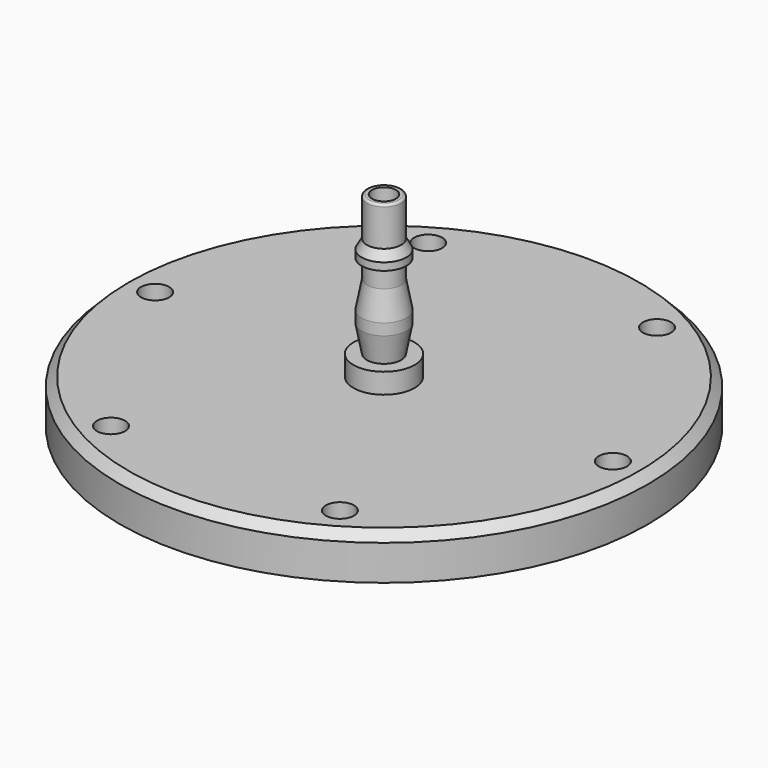
from build123d import *

# Parameters (mm, degrees)
F4_D    = 6.4
F5_SIZE = 2


with BuildPart() as f1:
    # F0 (on Front) → F1 (revolve)
    with BuildSketch(Plane.XZ):
        Polygon((-44, 0), (-44, -2), (-2.715, -2), (-2.715, 10), (-60, 10), (-60, 0), align=None)
    revolve(axis=Axis((0, 0, 2.463164), (0, 0, -1)))

    # F4 (through all)
    with Locations(Plane.XY.offset(10)):
        with Locations((-26, 45.033321), (-52, 0), (-26, -45.033321), (26, -45.033321), (52, 0), (26, 45.033321)):
            Hole(F4_D / 2)

    # F5
    f5_edges = [f1.edges().sort_by_distance(p)[0] for p in [
        (60, 0, 10),
    ]]
    chamfer(f5_edges, length=F5_SIZE)

    # F6 (on Front) → F7 (revolve)
    with BuildSketch(Plane.XZ):
        with BuildLine():
            Line((-3.91, 45.97), (-3.91, 37.61))
            Line((-3.91, 37.61), (-5.085, 35.51))
            Line((-5.085, 35.51), (-5.085, 33.81))
            Line((-5.085, 33.81), (-3.91, 33.81))
            Line((-3.91, 33.81), (-3.91, 29.6))
            Line((-3.91, 29.6), (-5.09, 23.4))
            Line((-5.09, 23.4), (-5.09, 20.8))
            Line((-5.09, 20.8), (-3.91, 14.6))
            Line((-3.91, 14.6), (-6.95, 14.6))
            Line((-6.95, 14.6), (-6.95, 10))
            Line((-6.95, 10), (-2.715, 10))
            Line((-2.715, 10), (-2.715, 46.47))
            Line((-2.715, 46.47), (-3.41, 46.47))
            ThreePointArc((-3.41, 46.47), (-3.763553, 46.323553), (-3.91, 45.97))
        make_face()
    revolve(axis=Axis((0, 0, 24.371663), (0, 0, 1)))


solid = f1.part
